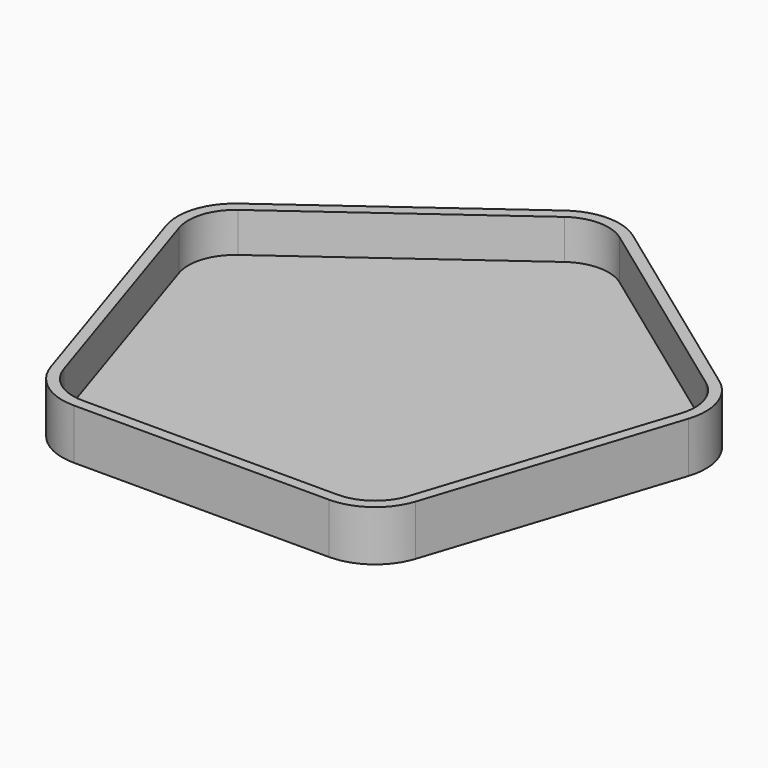
from build123d import *

# Parameters (mm, degrees)
F3_DEPTH = 7
F4_T     = -1.5


with BuildPart() as f3:
    # F2 (on Top) → F3 (new body)
    with BuildSketch(Plane.XY):
        with BuildLine():
            Line((25.307521998, -26.83281573), (36.2461487455, 6.83281573))
            ThreePointArc((36.2461487455, 6.83281573), (36.2461487455, 11.77708764), (33.3399786335, 15.77708764))
            Line((33.3399786335, 15.77708764), (4.7022820183, 36.583592135))
            ThreePointArc((4.7022820183, 36.583592135), (0, 38.11145618), (-4.7022820183, 36.583592135))
            Line((-4.7022820183, 36.583592135), (-33.3399786335, 15.77708764))
            ThreePointArc((-33.3399786335, 15.77708764), (-36.2461487455, 11.77708764), (-36.2461487455, 6.83281573))
            Line((-36.2461487455, 6.83281573), (-25.307521998, -26.83281573))
            ThreePointArc((-25.307521998, -26.83281573), (-22.401351886, -30.83281573), (-17.6990698677, -32.360679775))
            Line((-17.6990698677, -32.360679775), (17.6990698677, -32.360679775))
            ThreePointArc((17.6990698677, -32.360679775), (22.401351886, -30.83281573), (25.307521998, -26.83281573))
        make_face()
    extrude(amount=F3_DEPTH)

    # F4
    f4_openings = [f3.faces().sort_by_distance(p)[0] for p in [
        (0, 0, 7),
    ]]
    offset(amount=F4_T, openings=f4_openings)


solid = f3.part
